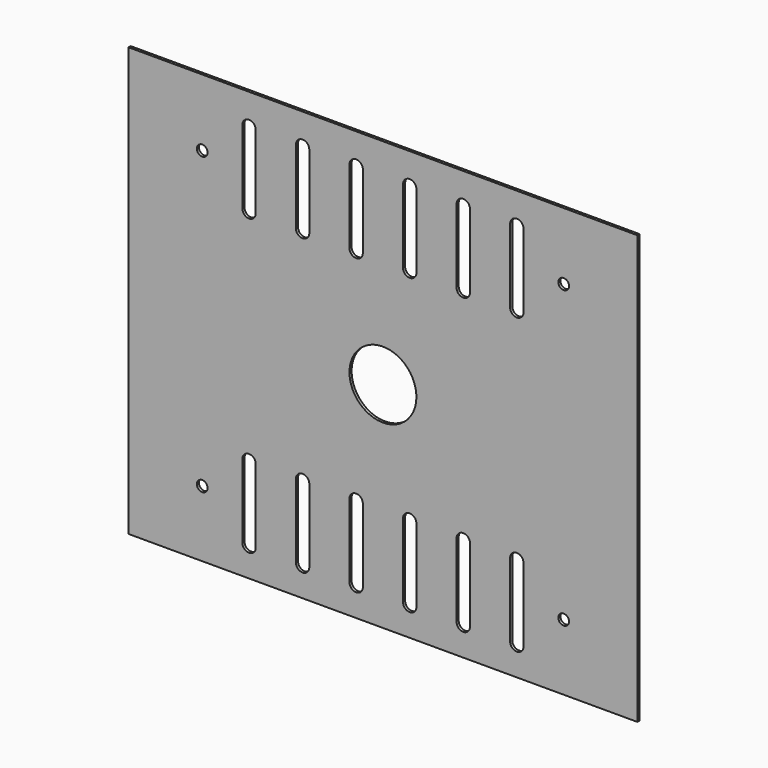
from build123d import *

# Parameters (mm, degrees)
F0_W     = 380
F0_H     = 320
F0_R     = 4
F0_R_2   = 25
F1_DEPTH = 2


with BuildPart() as f1:
    # F0 (on Front) → F1 (new body)
    with BuildSketch(Plane.XZ):
        with Locations((-7832.275127, 205.356488)):
            Rectangle(F0_W, F0_H)
        with Locations((-7967.275127, 94.752941)):
            Circle(F0_R, mode=Mode.SUBTRACT)
        with BuildLine():
            ThreePointArc((-7932.275127, 127.252941), (-7928.739593, 125.788475), (-7927.275127, 122.252941))
            Line((-7927.275127, 122.252941), (-7927.275127, 67.252941))
            ThreePointArc((-7927.275127, 67.252941), (-7928.739593, 63.717407), (-7932.275127, 62.252941))
            ThreePointArc((-7932.275127, 62.252941), (-7935.810661, 63.717407), (-7937.275127, 67.252941))
            Line((-7937.275127, 67.252941), (-7937.275127, 122.252941))
            ThreePointArc((-7937.275127, 122.252941), (-7935.810661, 125.788475), (-7932.275127, 127.252941))
        make_face(mode=Mode.SUBTRACT)
        with BuildLine():
            ThreePointArc((-7892.275127, 127.252941), (-7888.739593, 125.788475), (-7887.275127, 122.252941))
            Line((-7887.275127, 122.252941), (-7887.275127, 67.252941))
            ThreePointArc((-7887.275127, 67.252941), (-7888.739593, 63.717407), (-7892.275127, 62.252941))
            ThreePointArc((-7892.275127, 62.252941), (-7895.810661, 63.717407), (-7897.275127, 67.252941))
            Line((-7897.275127, 67.252941), (-7897.275127, 122.252941))
            ThreePointArc((-7897.275127, 122.252941), (-7895.810661, 125.788475), (-7892.275127, 127.252941))
        make_face(mode=Mode.SUBTRACT)
        with BuildLine():
            ThreePointArc((-7852.275127, 127.252941), (-7848.739593, 125.788475), (-7847.275127, 122.252941))
            Line((-7847.275127, 122.252941), (-7847.275127, 67.252941))
            ThreePointArc((-7847.275127, 67.252941), (-7848.739593, 63.717407), (-7852.275127, 62.252941))
            ThreePointArc((-7852.275127, 62.252941), (-7855.810661, 63.717407), (-7857.275127, 67.252941))
            Line((-7857.275127, 67.252941), (-7857.275127, 122.252941))
            ThreePointArc((-7857.275127, 122.252941), (-7855.810661, 125.788475), (-7852.275127, 127.252941))
        make_face(mode=Mode.SUBTRACT)
        with BuildLine():
            ThreePointArc((-7812.275127, 127.252941), (-7808.739593, 125.788475), (-7807.275127, 122.252941))
            Line((-7807.275127, 122.252941), (-7807.275127, 67.252941))
            ThreePointArc((-7807.275127, 67.252941), (-7808.739593, 63.717407), (-7812.275127, 62.252941))
            ThreePointArc((-7812.275127, 62.252941), (-7815.810661, 63.717407), (-7817.275127, 67.252941))
            Line((-7817.275127, 67.252941), (-7817.275127, 122.252941))
            ThreePointArc((-7817.275127, 122.252941), (-7815.810661, 125.788475), (-7812.275127, 127.252941))
        make_face(mode=Mode.SUBTRACT)
        with BuildLine():
            ThreePointArc((-7772.275127, 127.252941), (-7768.739593, 125.788475), (-7767.275127, 122.252941))
            Line((-7767.275127, 122.252941), (-7767.275127, 67.252941))
            ThreePointArc((-7767.275127, 67.252941), (-7768.739593, 63.717407), (-7772.275127, 62.252941))
            ThreePointArc((-7772.275127, 62.252941), (-7775.810661, 63.717407), (-7777.275127, 67.252941))
            Line((-7777.275127, 67.252941), (-7777.275127, 122.252941))
            ThreePointArc((-7777.275127, 122.252941), (-7775.810661, 125.788475), (-7772.275127, 127.252941))
        make_face(mode=Mode.SUBTRACT)
        with BuildLine():
            ThreePointArc((-7732.275127, 127.252941), (-7728.739593, 125.788475), (-7727.275127, 122.252941))
            Line((-7727.275127, 122.252941), (-7727.275127, 67.252941))
            ThreePointArc((-7727.275127, 67.252941), (-7728.739593, 63.717407), (-7732.275127, 62.252941))
            ThreePointArc((-7732.275127, 62.252941), (-7735.810661, 63.717407), (-7737.275127, 67.252941))
            Line((-7737.275127, 67.252941), (-7737.275127, 122.252941))
            ThreePointArc((-7737.275127, 122.252941), (-7735.810661, 125.788475), (-7732.275127, 127.252941))
        make_face(mode=Mode.SUBTRACT)
        with Locations((-7697.275127, 94.752941)):
            Circle(F0_R, mode=Mode.SUBTRACT)
        with Locations((-7832.275127, 205.356488)):
            Circle(F0_R_2, mode=Mode.SUBTRACT)
        with Locations((-7967.275127, 315.356488)):
            Circle(F0_R, mode=Mode.SUBTRACT)
        with BuildLine():
            ThreePointArc((-7932.275127, 347.008945), (-7928.739593, 345.544479), (-7927.275127, 342.008945))
            Line((-7927.275127, 342.008945), (-7927.275127, 287.008945))
            ThreePointArc((-7927.275127, 287.008945), (-7928.739593, 283.473411), (-7932.275127, 282.008945))
            ThreePointArc((-7932.275127, 282.008945), (-7935.810661, 283.473411), (-7937.275127, 287.008945))
            Line((-7937.275127, 287.008945), (-7937.275127, 342.008945))
            ThreePointArc((-7937.275127, 342.008945), (-7935.810661, 345.544479), (-7932.275127, 347.008945))
        make_face(mode=Mode.SUBTRACT)
        with BuildLine():
            ThreePointArc((-7892.275127, 347.008945), (-7888.739593, 345.544479), (-7887.275127, 342.008945))
            Line((-7887.275127, 342.008945), (-7887.275127, 287.008945))
            ThreePointArc((-7887.275127, 287.008945), (-7888.739593, 283.473411), (-7892.275127, 282.008945))
            ThreePointArc((-7892.275127, 282.008945), (-7895.810661, 283.473411), (-7897.275127, 287.008945))
            Line((-7897.275127, 287.008945), (-7897.275127, 342.008945))
            ThreePointArc((-7897.275127, 342.008945), (-7895.810661, 345.544479), (-7892.275127, 347.008945))
        make_face(mode=Mode.SUBTRACT)
        with BuildLine():
            ThreePointArc((-7852.275127, 347.008945), (-7848.739593, 345.544479), (-7847.275127, 342.008945))
            Line((-7847.275127, 342.008945), (-7847.275127, 287.008945))
            ThreePointArc((-7847.275127, 287.008945), (-7848.739593, 283.473411), (-7852.275127, 282.008945))
            ThreePointArc((-7852.275127, 282.008945), (-7855.810661, 283.473411), (-7857.275127, 287.008945))
            Line((-7857.275127, 287.008945), (-7857.275127, 342.008945))
            ThreePointArc((-7857.275127, 342.008945), (-7855.810661, 345.544479), (-7852.275127, 347.008945))
        make_face(mode=Mode.SUBTRACT)
        with BuildLine():
            ThreePointArc((-7812.275127, 347.008945), (-7808.739593, 345.544479), (-7807.275127, 342.008945))
            Line((-7807.275127, 342.008945), (-7807.275127, 287.008945))
            ThreePointArc((-7807.275127, 287.008945), (-7808.739593, 283.473411), (-7812.275127, 282.008945))
            ThreePointArc((-7812.275127, 282.008945), (-7815.810661, 283.473411), (-7817.275127, 287.008945))
            Line((-7817.275127, 287.008945), (-7817.275127, 342.008945))
            ThreePointArc((-7817.275127, 342.008945), (-7815.810661, 345.544479), (-7812.275127, 347.008945))
        make_face(mode=Mode.SUBTRACT)
        with BuildLine():
            ThreePointArc((-7772.275127, 347.008945), (-7768.739593, 345.544479), (-7767.275127, 342.008945))
            Line((-7767.275127, 342.008945), (-7767.275127, 287.008945))
            ThreePointArc((-7767.275127, 287.008945), (-7768.739593, 283.473411), (-7772.275127, 282.008945))
            ThreePointArc((-7772.275127, 282.008945), (-7775.810661, 283.473411), (-7777.275127, 287.008945))
            Line((-7777.275127, 287.008945), (-7777.275127, 342.008945))
            ThreePointArc((-7777.275127, 342.008945), (-7775.810661, 345.544479), (-7772.275127, 347.008945))
        make_face(mode=Mode.SUBTRACT)
        with BuildLine():
            ThreePointArc((-7732.275127, 347.008945), (-7728.739593, 345.544479), (-7727.275127, 342.008945))
            Line((-7727.275127, 342.008945), (-7727.275127, 287.008945))
            ThreePointArc((-7727.275127, 287.008945), (-7728.739593, 283.473411), (-7732.275127, 282.008945))
            ThreePointArc((-7732.275127, 282.008945), (-7735.810661, 283.473411), (-7737.275127, 287.008945))
            Line((-7737.275127, 287.008945), (-7737.275127, 342.008945))
            ThreePointArc((-7737.275127, 342.008945), (-7735.810661, 345.544479), (-7732.275127, 347.008945))
        make_face(mode=Mode.SUBTRACT)
        with Locations((-7697.275127, 315.356488)):
            Circle(F0_R, mode=Mode.SUBTRACT)
    extrude(amount=F1_DEPTH)


solid = f1.part
